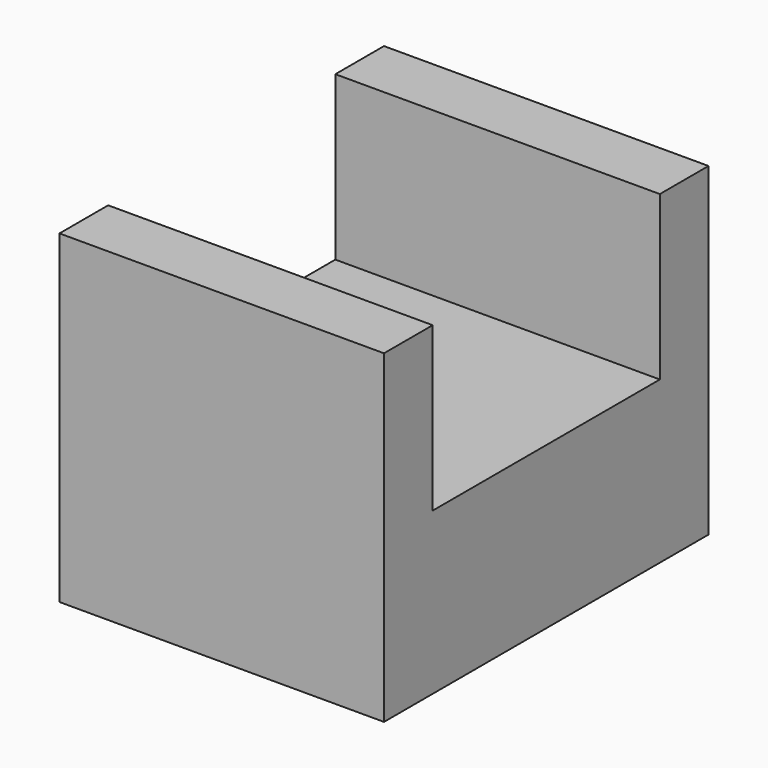
from build123d import *

# Parameters (mm, degrees)
F0_W          = 101.6
F0_H          = 101.6
F1_DEPTH      = 63.5
F1_DEPTH_BACK = 63.5
F2_W          = 101.6
F2_H          = 88.9
F3_DEPTH      = 81.22025


with BuildPart() as f1:
    # F0 (on Front) → F1 (new body, two sides)
    with BuildSketch(Plane.XZ) as f1_sk:
        with Locations((0.246701, 0.3067)):
            Rectangle(F0_W, F0_H)
    extrude(amount=F1_DEPTH)
    extrude(f1_sk.sketch, amount=-F1_DEPTH_BACK)

    # F2 (on Top) → F3 (cut)
    with BuildSketch(Plane.XY):
        with Locations((0.246701, 0)):
            Rectangle(F2_W, F2_H)
    extrude(amount=F3_DEPTH, mode=Mode.SUBTRACT)


solid = f1.part
